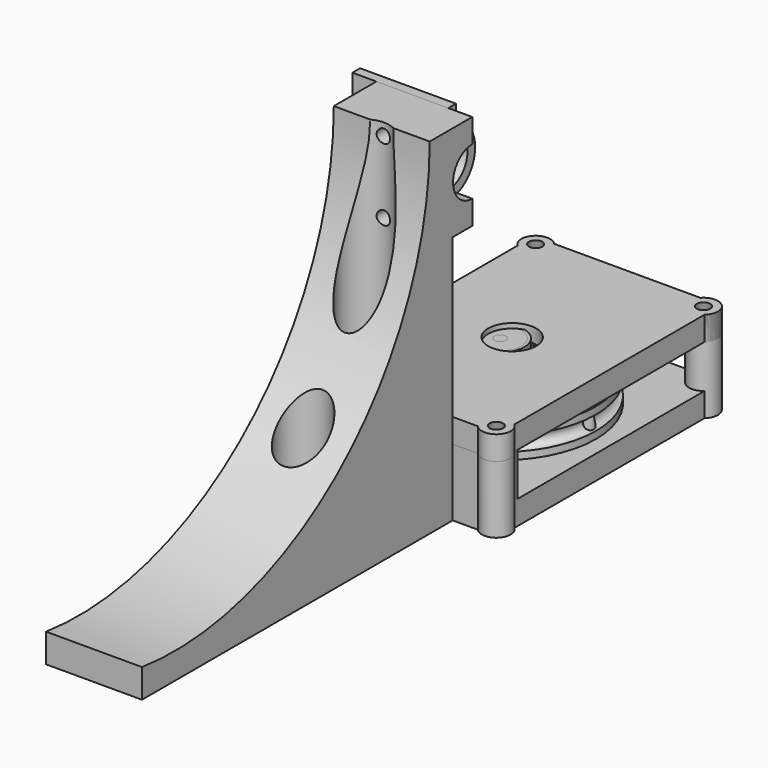
from build123d import *

# Parameters (mm, degrees)
SKETCH002_W             = 6
SKETCH002_H             = 72
PAD002_DEPTH            = 20
PAD003_DEPTH            = 20
PAD005_DEPTH            = 20
SKETCH007_R             = 5.1
POCKET001_DEPTH         = 66.001
SKETCH008_R             = 1.4
POCKET_DEPTH            = 15
SKETCH009_R             = 1.4
POCKET002_DEPTH         = 8
SKETCH_R                = 2
POCKET003_DEPTH         = 72.0010001
SKETCH010_W             = 39
SKETCH010_H             = 58
SKETCH010_R             = 1.4
SKETCH010_R_2           = 5
PAD006_DEPTH            = 5
SKETCH015_W             = 39
SKETCH015_H             = 5
PAD007_DEPTH            = 19
SKETCH016_R             = 3
PAD008_DEPTH            = 19
SKETCH018_R             = 1.4
POCKET005_DEPTH         = 19.001
SKETCH024_R             = 7.56
POCKET007_DEPTH         = 18.001
SKETCH025_R             = 1.4
POCKET009_DEPTH         = 29.001
BODY001_PLACEMENT_ANGLE = 180
SKETCH011_R             = 20
PAD_DEPTH               = 6
SKETCH013_R             = 5.02
PAD012_DEPTH            = 4
POCKET008_DEPTH         = 10.001
SKETCH031_R             = 1.5
POCKET011_DEPTH         = 6
POLARPATTERN_COUNT      = 8
BODY002_PLACEMENT_ANGLE = 180
SKETCH019_W             = 39
SKETCH019_H             = 58
SKETCH019_R             = 1.4
SKETCH019_R_2           = 5
SKETCH019_R_3           = 2
PAD009_DEPTH            = 3
SKETCH021_R             = 3
PAD011_DEPTH            = 3
SKETCH023_R             = 1.4
POCKET006_DEPTH         = 3.001
BODY003_PLACEMENT_ANGLE = 180
SKETCH032_R             = 5.02
PAD013_DEPTH            = 5
PAD014_DEPTH            = 11
SKETCH034_R             = 4.425
PAD015_DEPTH            = 6
BODY004_PLACEMENT_ANGLE = 180
PAD016_DEPTH            = 20
SKETCH036_R             = 1.4
POCKET012_DEPTH         = 7.001
SKETCH037_R             = 2.7
POCKET013_DEPTH         = 5
BODY005_PLACEMENT_ANGLE = 180
SKETCH038_R             = 4
PAD017_DEPTH            = 5
PAD018_DEPTH            = 11
SKETCH040_R             = 4.425
PAD019_DEPTH            = 6
SKETCH041_R             = 1.2
POCKET014_DEPTH         = 11.001
BODY006_PLACEMENT_ANGLE = 180
SKETCH042_W             = 39
SKETCH042_H             = 58
SKETCH042_R             = 1.4
SKETCH042_R_2           = 5.02
PAD020_DEPTH            = 5
SKETCH043_R             = 3
PAD021_DEPTH            = 5
SKETCH044_R             = 1.4
POCKET015_DEPTH         = 5.001
SKETCH045_R             = 7.56
POCKET016_DEPTH         = 5
BODY007_PLACEMENT_ANGLE = 180


with BuildPart() as bodyhangersupport:
    # Sketch002 → Pad002 (new body)
    with BuildSketch(Plane.YZ):
        with Locations((28, 36)):
            Rectangle(SKETCH002_W, SKETCH002_H)
    extrude(amount=PAD002_DEPTH)

    # Sketch003 → Pad003 (join)
    with BuildSketch(Plane.YZ):
        with BuildLine():
            Line((31, 72), (36.1, 72))
            Line((36.1, 72), (36.1, 67))
            ThreePointArc((36.1, 67), (31.1, 62), (36.1, 57))
            Line((36.1, 57), (36.1, 52))
            Line((36.1, 52), (31, 52))
            Line((31, 52), (31, 72))
        make_face()
    extrude(amount=PAD003_DEPTH)

    # Sketch006 → Pad005 (join)
    with BuildSketch(Plane.YZ):
        with BuildLine():
            Line((-50, 0), (-50, 6))
            ThreePointArc((-50, 6), (2.4181801261, 22.047522584), (25, 72))
            Line((25, 0), (25, 72))
            Line((-50, 0), (25, 0))
        make_face()
    extrude(amount=PAD005_DEPTH)

    # Sketch007 → Pocket001 (cut, through all)
    with BuildSketch(Plane.XY.offset(6)):
        with Locations((10, 20.5)):
            Circle(SKETCH007_R)
        with Locations((10, 4.5)):
            Circle(SKETCH007_R)
    extrude(amount=POCKET001_DEPTH, mode=Mode.SUBTRACT)

    # Sketch008 → Pocket (cut)
    with BuildSketch(Plane.XZ.offset(-36.1)):
        with Locations((10, 69.5)):
            Circle(SKETCH008_R)
        with Locations((10, 54.5)):
            Circle(SKETCH008_R)
    extrude(amount=POCKET_DEPTH, mode=Mode.SUBTRACT)

    # Sketch009 → Pocket002 (cut)
    with BuildSketch(Plane.XZ.offset(-31)):
        with Locations((2.5, 15)):
            Circle(SKETCH009_R)
        with Locations((2.5, 9)):
            Circle(SKETCH009_R)
        with Locations((17.5, 15)):
            Circle(SKETCH009_R)
        with Locations((17.5, 9)):
            Circle(SKETCH009_R)
    extrude(amount=POCKET002_DEPTH, mode=Mode.SUBTRACT)

    # Sketch → Pocket003 (cut, through all)
    with BuildSketch(Plane.XY):
        with Locations((10, 20.5)):
            Circle(SKETCH_R)
        with Locations((10, 4.5)):
            Circle(SKETCH_R)
    extrude(amount=POCKET003_DEPTH, mode=Mode.SUBTRACT)


with BuildPart() as enginemount:
    # Sketch010 → Pad006 (new body)
    with BuildSketch(Plane.XY):
        with Locations((0, -1)):
            Rectangle(SKETCH010_W, SKETCH010_H)
        with Locations((-17.5, -28)):
            Circle(SKETCH010_R, mode=Mode.SUBTRACT)
        with Locations((17.5, -28)):
            Circle(SKETCH010_R, mode=Mode.SUBTRACT)
        Circle(SKETCH010_R_2, mode=Mode.SUBTRACT)
        with Locations((-17.5, 26)):
            Circle(SKETCH010_R, mode=Mode.SUBTRACT)
        with Locations((17.5, 26)):
            Circle(SKETCH010_R, mode=Mode.SUBTRACT)
    extrude(amount=PAD006_DEPTH)

    # Sketch015 → Pad007 (join)
    with BuildSketch(Plane.XY):
        with Locations((0, 25.5)):
            Rectangle(SKETCH015_W, SKETCH015_H)
    extrude(amount=PAD007_DEPTH)

    # Sketch016 → Pad008 (join)
    with BuildSketch(Plane.XY):
        with Locations((-17.5, 26)):
            Circle(SKETCH016_R)
        with Locations((17.5, 26)):
            Circle(SKETCH016_R)
        with Locations((-17.5, -28)):
            Circle(SKETCH016_R)
        with Locations((17.5, -28)):
            Circle(SKETCH016_R)
    extrude(amount=PAD008_DEPTH)

    # Sketch018 → Pocket005 (cut, through all)
    with BuildSketch(Plane.XY):
        with Locations((-17.5, 26)):
            Circle(SKETCH018_R)
        with Locations((17.5, 26)):
            Circle(SKETCH018_R)
        with Locations((-17.5, -28)):
            Circle(SKETCH018_R)
        with Locations((17.5, -28)):
            Circle(SKETCH018_R)
    extrude(amount=POCKET005_DEPTH, mode=Mode.SUBTRACT)

    # Sketch024 → Pocket007 (cut, through all)
    with BuildSketch(Plane.XY.offset(1)):
        Circle(SKETCH024_R)
    extrude(amount=POCKET007_DEPTH, mode=Mode.SUBTRACT)

    # Sketch025 → Pocket009 (cut, through all)
    with BuildSketch(Plane.XZ):
        with Locations((-7.5, 9)):
            Circle(SKETCH025_R)
        with Locations((7.5, 9)):
            Circle(SKETCH025_R)
        with Locations((-7.5, 15)):
            Circle(SKETCH025_R)
        with Locations((7.5, 15)):
            Circle(SKETCH025_R)
    extrude(amount=-POCKET009_DEPTH, mode=Mode.SUBTRACT)


with BuildPart() as enginemount_1:
    # Body001 placement: moved
    add(enginemount.part.moved(Location((10, 59, 0))).rotate(Axis((10, 59, 0), (0, 0, 1)), BODY001_PLACEMENT_ANGLE))


with BuildPart() as body002wheel:
    # Sketch011 → Pad (new body)
    with BuildSketch(Plane.XY):
        Circle(SKETCH011_R)
    extrude(amount=PAD_DEPTH)

    # Sketch012 → Groove (revolve, cut)
    with BuildSketch(Plane.XZ):
        with BuildLine():
            ThreePointArc((20, 4.5), (18.5, 3), (20, 1.5))
            Line((20, 4.5), (20, 1.5))
        make_face()
    revolve(axis=Axis((0, 0, 0), (0, 0, 1)), mode=Mode.SUBTRACT)

    # Sketch013 → Pad012 (join)
    with BuildSketch(Plane.XY.offset(6)):
        Circle(SKETCH013_R)
    extrude(amount=PAD012_DEPTH)

    # Sketch014 → Pocket008 (cut, through all)
    with BuildSketch(Plane.XY):
        with BuildLine():
            ThreePointArc((-3, -1.8980252896), (0, -3.55), (3, -1.8980252896))
            Line((3, 1.8980252896), (3, -1.8980252896))
            ThreePointArc((3, 1.8980252896), (0, 3.55), (-3, 1.8980252896))
            Line((-3, -1.8980252896), (-3, 1.8980252896))
        make_face()
    extrude(amount=POCKET008_DEPTH, mode=Mode.SUBTRACT)

    # Sketch031 → Pocket011 (cut)
    with BuildSketch(Plane.XY):
        with Locations((18, 0)):
            Circle(SKETCH031_R)
    pocket011 = extrude(amount=POCKET011_DEPTH, mode=Mode.SUBTRACT)

    # PolarPattern: Pocket011 ×8 about axis
    polarpattern_axis = Axis((0, 0, 0), (0, 0, 1))
    for i in range(1, POLARPATTERN_COUNT):
        add(pocket011.rotate(polarpattern_axis, i * 360 / POLARPATTERN_COUNT), mode=Mode.SUBTRACT)


with BuildPart() as body002wheel_1:
    # Body002 placement: moved
    add(body002wheel.part.moved(Location((7.5, 59, 12))).rotate(Axis((7.5, 59, 12), (1, 0, 0)), BODY002_PLACEMENT_ANGLE))


with BuildPart() as enginemount001cover:
    # Sketch019 → Pad009 (new body)
    with BuildSketch(Plane.XY):
        with Locations((0, -1)):
            Rectangle(SKETCH019_W, SKETCH019_H)
        with Locations((-17.5, -28)):
            Circle(SKETCH019_R, mode=Mode.SUBTRACT)
        with Locations((17.5, -28)):
            Circle(SKETCH019_R, mode=Mode.SUBTRACT)
        Circle(SKETCH019_R_2, mode=Mode.SUBTRACT)
        with Locations((-17.5, 26)):
            Circle(SKETCH019_R, mode=Mode.SUBTRACT)
        with Locations((17.5, 26)):
            Circle(SKETCH019_R, mode=Mode.SUBTRACT)
        with Locations((8, 0)):
            Circle(SKETCH019_R_3, mode=Mode.SUBTRACT)
        with Locations((-8, 0)):
            Circle(SKETCH019_R_3, mode=Mode.SUBTRACT)
    extrude(amount=PAD009_DEPTH)

    # Sketch021 → Pad011 (join)
    with BuildSketch(Plane.XY):
        with Locations((-17.5, 26)):
            Circle(SKETCH021_R)
        with Locations((17.5, 26)):
            Circle(SKETCH021_R)
        with Locations((-17.5, -28)):
            Circle(SKETCH021_R)
        with Locations((17.5, -28)):
            Circle(SKETCH021_R)
    extrude(amount=PAD011_DEPTH)

    # Sketch023 → Pocket006 (cut, through all)
    with BuildSketch(Plane.XY):
        with Locations((-17.5, 26)):
            Circle(SKETCH023_R)
        with Locations((17.5, 26)):
            Circle(SKETCH023_R)
        with Locations((-17.5, -28)):
            Circle(SKETCH023_R)
        with Locations((17.5, -28)):
            Circle(SKETCH023_R)
    extrude(amount=POCKET006_DEPTH, mode=Mode.SUBTRACT)


with BuildPart() as enginemount001cover_1:
    # Body003 placement: moved
    add(enginemount001cover.part.moved(Location((10, 59, 19))).rotate(Axis((10, 59, 19), (1, 0, 0)), BODY003_PLACEMENT_ANGLE))


with BuildPart() as obj1:
    # Sketch032 → Pad013 (new body)
    with BuildSketch(Plane.XY):
        Circle(SKETCH032_R)
    extrude(amount=PAD013_DEPTH)

    # Sketch033 → Pad014 (join)
    with BuildSketch(Plane.XY):
        with BuildLine():
            ThreePointArc((-2.9375, -1.7611697107), (0, -3.425), (2.9375, -1.7611697107))
            Line((2.9375, 1.7611697107), (2.9375, -1.7611697107))
            ThreePointArc((2.9375, 1.7611697107), (0, 3.425), (-2.9375, 1.7611697107))
            Line((-2.9375, -1.7611697107), (-2.9375, 1.7611697107))
        make_face()
    extrude(amount=PAD014_DEPTH)

    # Sketch034 → Pad015 (join)
    with BuildSketch(Plane.XY):
        Circle(SKETCH034_R)
    extrude(amount=PAD015_DEPTH)


with BuildPart() as obj1_1:
    # Body004 placement: moved
    add(obj1.part.moved(Location((7.5, 59, 18))).rotate(Axis((7.5, 59, 18), (0, 1, 0)), BODY004_PLACEMENT_ANGLE))


with BuildPart() as body005rodtopcover:
    # Sketch035 → Pad016 (new body)
    with BuildSketch(Plane.YZ):
        with BuildLine():
            Line((-2, 10), (0, 10))
            Line((0, 10), (0, 5))
            ThreePointArc((0, 5), (-5, 0), (0, -5))
            Line((0, -5), (0, -10))
            Line((0, -10), (-2, -10))
            Line((-2, -10), (-2, -6.7082039325))
            ThreePointArc((-2, 6.7082039325), (-7, 0), (-2, -6.7082039325))
            Line((-2, 6.7082039325), (-2, 10))
        make_face()
    extrude(amount=PAD016_DEPTH)

    # Sketch036 → Pocket012 (cut, through all)
    with BuildSketch(Plane.XZ):
        with Locations((10, 7.5)):
            Circle(SKETCH036_R)
        with Locations((10, -7.5)):
            Circle(SKETCH036_R)
    extrude(amount=POCKET012_DEPTH, mode=Mode.SUBTRACT)

    # Sketch037 → Pocket013 (cut)
    with BuildSketch(Plane.XZ.offset(2)):
        with Locations((10, 7.5)):
            Circle(SKETCH037_R)
        with Locations((10, -7.5)):
            Circle(SKETCH037_R)
    extrude(amount=POCKET013_DEPTH, mode=Mode.SUBTRACT)


with BuildPart() as body005rodtopcover_1:
    # Body005 placement: moved
    add(body005rodtopcover.part.moved(Location((15, 36.1, 62))).rotate(Axis((15, 36.1, 62), (0, 0, 1)), BODY005_PLACEMENT_ANGLE))


with BuildPart() as body004enginewheelconnector001:
    # Sketch038 → Pad017 (new body)
    with BuildSketch(Plane.XY):
        Circle(SKETCH038_R)
    extrude(amount=PAD017_DEPTH)

    # Sketch039 → Pad018 (join)
    with BuildSketch(Plane.XY):
        with BuildLine():
            ThreePointArc((-2.9375, -1.7611697107), (0, -3.425), (2.9375, -1.7611697107))
            Line((2.9375, 1.7611697107), (2.9375, -1.7611697107))
            ThreePointArc((2.9375, 1.7611697107), (0, 3.425), (-2.9375, 1.7611697107))
            Line((-2.9375, -1.7611697107), (-2.9375, 1.7611697107))
        make_face()
    extrude(amount=PAD018_DEPTH)

    # Sketch040 → Pad019 (join)
    with BuildSketch(Plane.XY):
        Circle(SKETCH040_R)
    extrude(amount=PAD019_DEPTH)

    # Sketch041 → Pocket014 (cut, through all)
    with BuildSketch(Plane.XY):
        Circle(SKETCH041_R)
    extrude(amount=POCKET014_DEPTH, mode=Mode.SUBTRACT)


with BuildPart() as body004enginewheelconnector001_1:
    # Body006 placement: moved
    add(body004enginewheelconnector001.part.moved(Location((7.5, 59, 18))).rotate(Axis((7.5, 59, 18), (0, 1, 0)), BODY006_PLACEMENT_ANGLE))


with BuildPart() as obj2:
    # Sketch042 → Pad020 (new body)
    with BuildSketch(Plane.XY):
        with Locations((0, -1)):
            Rectangle(SKETCH042_W, SKETCH042_H)
        with Locations((-17.5, -28)):
            Circle(SKETCH042_R, mode=Mode.SUBTRACT)
        with Locations((17.5, -28)):
            Circle(SKETCH042_R, mode=Mode.SUBTRACT)
        Circle(SKETCH042_R_2, mode=Mode.SUBTRACT)
        with Locations((-17.5, 26)):
            Circle(SKETCH042_R, mode=Mode.SUBTRACT)
        with Locations((17.5, 26)):
            Circle(SKETCH042_R, mode=Mode.SUBTRACT)
    extrude(amount=PAD020_DEPTH)

    # Sketch043 → Pad021 (join)
    with BuildSketch(Plane.XY):
        with Locations((-17.5, 26)):
            Circle(SKETCH043_R)
        with Locations((17.5, 26)):
            Circle(SKETCH043_R)
        with Locations((-17.5, -28)):
            Circle(SKETCH043_R)
        with Locations((17.5, -28)):
            Circle(SKETCH043_R)
    extrude(amount=PAD021_DEPTH)

    # Sketch044 → Pocket015 (cut, through all)
    with BuildSketch(Plane.XY):
        with Locations((-17.5, 26)):
            Circle(SKETCH044_R)
        with Locations((17.5, 26)):
            Circle(SKETCH044_R)
        with Locations((-17.5, -28)):
            Circle(SKETCH044_R)
        with Locations((17.5, -28)):
            Circle(SKETCH044_R)
    extrude(amount=POCKET015_DEPTH, mode=Mode.SUBTRACT)

    # Sketch045 → Pocket016 (cut)
    with BuildSketch(Plane.XY.offset(1)):
        Circle(SKETCH045_R)
    extrude(amount=POCKET016_DEPTH, mode=Mode.SUBTRACT)


with BuildPart() as obj2_1:
    # Body007 placement: moved
    add(obj2.part.moved(Location((10, 59, 19))).rotate(Axis((10, 59, 19), (1, 0, 0)), BODY007_PLACEMENT_ANGLE))


solid = Compound([bodyhangersupport.part, enginemount_1.part, body002wheel_1.part, enginemount001cover_1.part, obj1_1.part, body005rodtopcover_1.part, body004enginewheelconnector001_1.part, obj2_1.part])
